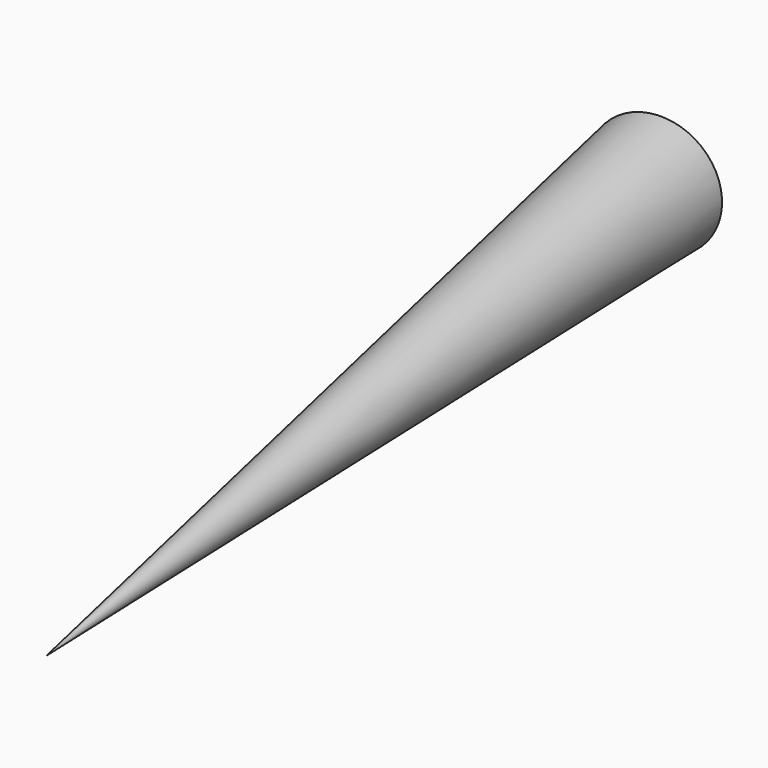
from build123d import *


with BuildPart() as f2:
    # F1 (on face) → F2 (revolve)
    with BuildSketch(Plane.XY):
        with BuildLine():
            Line((57.0728741586, -411.2023413181), (3.9715505107, -28.6144844246))
            ThreePointArc((3.9715505107, -28.6144844246), (-12.417198384, -26.0840011623), (-24.7143869853, -14.9586432634))
            Line((-24.7143869853, -14.9586432634), (57.0728741586, -411.2023413181))
        make_face()
    revolve(axis=Axis((28.5364370793, -205.6011706591, 0), (0.1374772401, -0.990504926, 0)))


solid = f2.part
